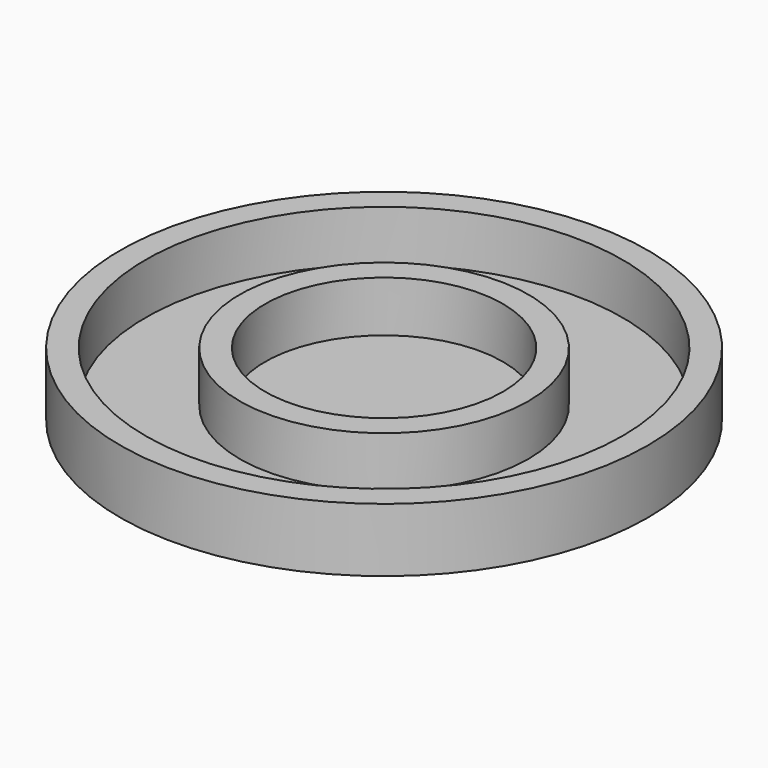
from build123d import *


with BuildPart() as part:
    # Sketch → Revolution (revolve)
    with BuildSketch(Plane.XZ):
        Polygon((0, 0), (20.75, 0), (20.75, 5), (18.75, 5), (18.75, 1), (11.35, 1), (11.35, 5), (9.35, 5), (9.35, 1), (0, 1), align=None)
    revolve(axis=Axis((0, 0, 0), (0, 0, 1)))


solid = part.part
